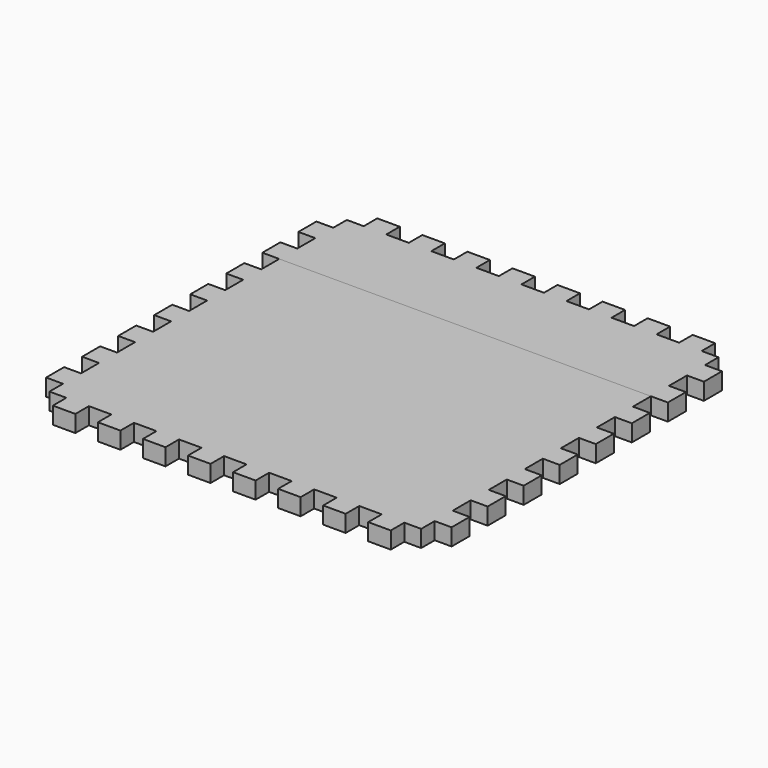
from build123d import *

# Parameters (mm, degrees)
F1_DEPTH = 9.525
F2_DEPTH = 9.525


with BuildPart() as f1:
    # F0 (on Top) → F1 (new body)
    with BuildSketch(Plane.XY):
        Polygon((31.75, 0), (19.05, 0), (19.05, -9.525), (9.525, -9.525), (9.525, -19.05), (0, -19.05), (0, -31.75), (9.525, -31.75), (9.525, -44.45), (0, -44.45), (0, -57.15), (9.525, -57.15), (219.075, -57.15), (228.6, -57.15), (228.6, -44.45), (219.075, -44.45), (219.075, -31.75), (228.6, -31.75), (228.6, -19.05), (219.075, -19.05), (219.075, -9.525), (209.55, -9.525), (209.55, 0), (196.85, 0), (196.85, -9.525), (184.15, -9.525), (184.15, 0), (171.45, 0), (171.45, -9.525), (158.75, -9.525), (158.75, 0), (146.05, 0), (146.05, -9.525), (133.35, -9.525), (133.35, 0), (120.65, 0), (120.65, -9.525), (107.95, -9.525), (107.95, 0), (95.25, 0), (95.25, -9.525), (82.55, -9.525), (82.55, 0), (69.85, 0), (69.85, -9.525), (57.15, -9.525), (57.15, 0), (44.45, 0), (44.45, -9.525), (31.75, -9.525), align=None)
    extrude(amount=F1_DEPTH)


with BuildPart() as f2:
    # F0 (on Top) → F2 (new body)
    with BuildSketch(Plane.XY):
        Polygon((219.075, -57.15), (9.525, -57.15), (9.525, -69.85), (0, -69.85), (0, -82.55), (9.525, -82.55), (9.525, -95.25), (0, -95.25), (0, -107.95), (9.525, -107.95), (9.525, -120.65), (0, -120.65), (0, -133.35), (9.525, -133.35), (9.525, -146.05), (0, -146.05), (0, -158.75), (9.525, -158.75), (9.525, -171.45), (0, -171.45), (0, -184.15), (9.525, -184.15), (9.525, -196.85), (0, -196.85), (0, -209.55), (9.525, -209.55), (9.525, -219.075), (19.05, -219.075), (19.05, -228.6), (31.75, -228.6), (31.75, -219.075), (44.45, -219.075), (44.45, -228.6), (57.15, -228.6), (57.15, -219.075), (69.85, -219.075), (69.85, -228.6), (82.55, -228.6), (82.55, -219.075), (95.25, -219.075), (95.25, -228.6), (107.95, -228.6), (107.95, -219.075), (120.65, -219.075), (120.65, -228.6), (133.35, -228.6), (133.35, -219.075), (146.05, -219.075), (146.05, -228.6), (158.75, -228.6), (158.75, -219.075), (171.45, -219.075), (171.45, -228.6), (184.15, -228.6), (184.15, -219.075), (196.85, -219.075), (196.85, -228.6), (209.55, -228.6), (209.55, -219.075), (219.075, -219.075), (219.075, -209.55), (228.6, -209.55), (228.6, -196.85), (219.075, -196.85), (219.075, -184.15), (228.6, -184.15), (228.6, -171.45), (219.075, -171.45), (219.075, -158.75), (228.6, -158.75), (228.6, -146.05), (219.075, -146.05), (219.075, -133.35), (228.6, -133.35), (228.6, -120.65), (219.075, -120.65), (219.075, -107.95), (228.6, -107.95), (228.6, -95.25), (219.075, -95.25), (219.075, -82.55), (228.6, -82.55), (228.6, -69.85), (219.075, -69.85), align=None)
    extrude(amount=F2_DEPTH)


solid = Compound([f1.part, f2.part])
